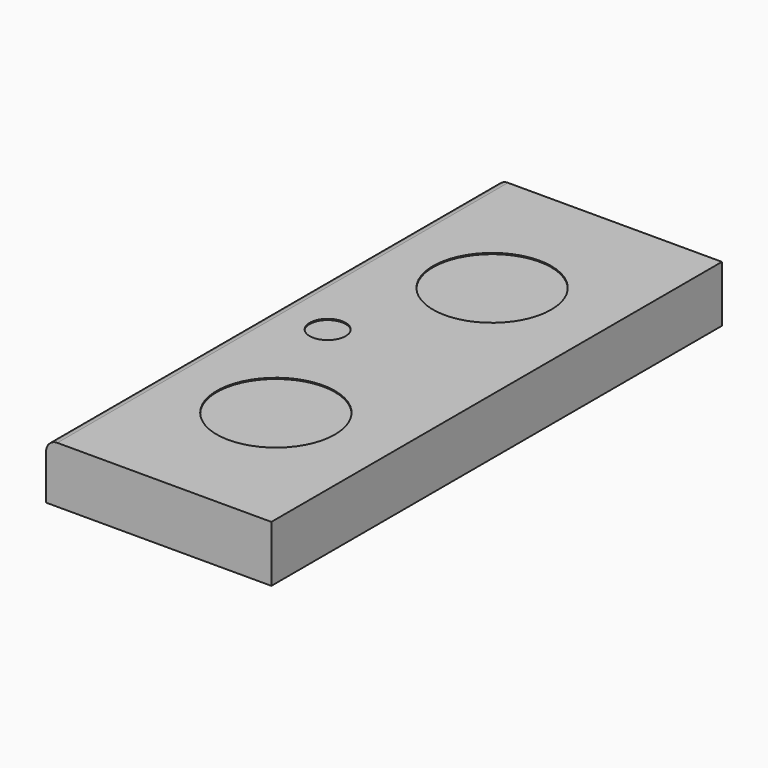
from build123d import *

# Parameters (mm, degrees)
SKETCH_W      = 200
SKETCH_H      = 500
PAD_DEPTH     = 50
SKETCH001_R   = 52.5
SKETCH001_R_2 = 16
POCKET_DEPTH  = 1
FILLET_R      = 10


with BuildPart() as part:
    # Sketch (on XY_Plane of Origin) → Pad (new body)
    with BuildSketch(Plane.XY):
        Rectangle(SKETCH_W, SKETCH_H)
    extrude(amount=PAD_DEPTH)

    # Sketch001 (on Face6 of Pad) → Pocket (cut)
    with BuildSketch(Plane.XY.offset(50)):
        with Locations((0, 120)):
            Circle(SKETCH001_R)
        with Locations((0, -120)):
            Circle(SKETCH001_R)
        with Locations((-50, 0)):
            Circle(SKETCH001_R_2)
    extrude(amount=-POCKET_DEPTH, mode=Mode.SUBTRACT)

    # Fillet
    fillet_edges = [part.edges().sort_by_distance(p)[0] for p in [
        (-100, 0, 50),
    ]]
    fillet(fillet_edges, radius=FILLET_R)


solid = part.part
